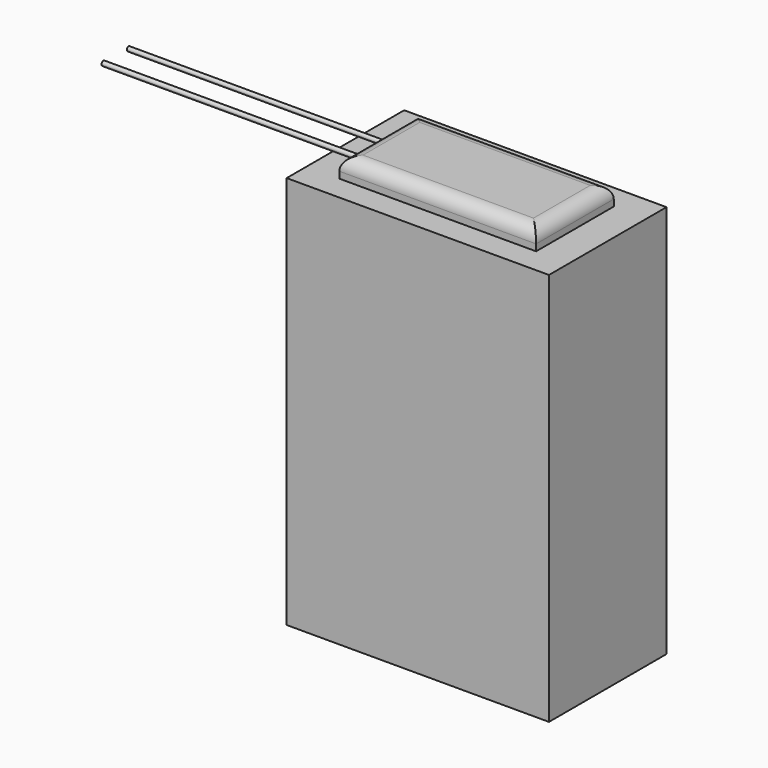
from build123d import *

# Parameters (mm, degrees)
F0_W     = 50.8
F0_H     = 28.448
F1_DEPTH = 76.2
F2_W     = 38.1
F2_H     = 18.796
F3_DEPTH = 3.81
F4_R     = 2.54
F5_R     = 0.424779
F5_R_2   = 0.450135
F6_DEPTH = 50.8


with BuildPart() as f1:
    # F0 (on Top) → F1 (new body)
    with BuildSketch(Plane.XY):
        with Locations((25.4, -14.224)):
            Rectangle(F0_W, F0_H)
    extrude(amount=F1_DEPTH)

    # F2 (on face) → F3 (join)
    with BuildSketch(Plane.XY.offset(76.2)):
        with Locations((25.4, -14.224)):
            Rectangle(F2_W, F2_H)
    extrude(amount=F3_DEPTH)

    # F4
    f4_edges = [f1.edges().sort_by_distance(p)[0] for p in [
        (25.4, -4.826, 80.01),
        (25.4, -23.622, 80.01),
        (6.35, -14.224, 80.01),
        (44.45, -14.224, 80.01),
    ]]
    fillet(f4_edges, radius=F4_R)

    # F5 (on face) → F6 (join)
    with BuildSketch(Plane(origin=(6.35, 0, 0), x_dir=(0, -1, 0), z_dir=(-1, 0, 0))):
        with Locations((11.168979, 76.764129)):
            Circle(F5_R)
        with Locations((17.253665, 76.764129)):
            Circle(F5_R_2)
    extrude(amount=F6_DEPTH)


solid = f1.part
